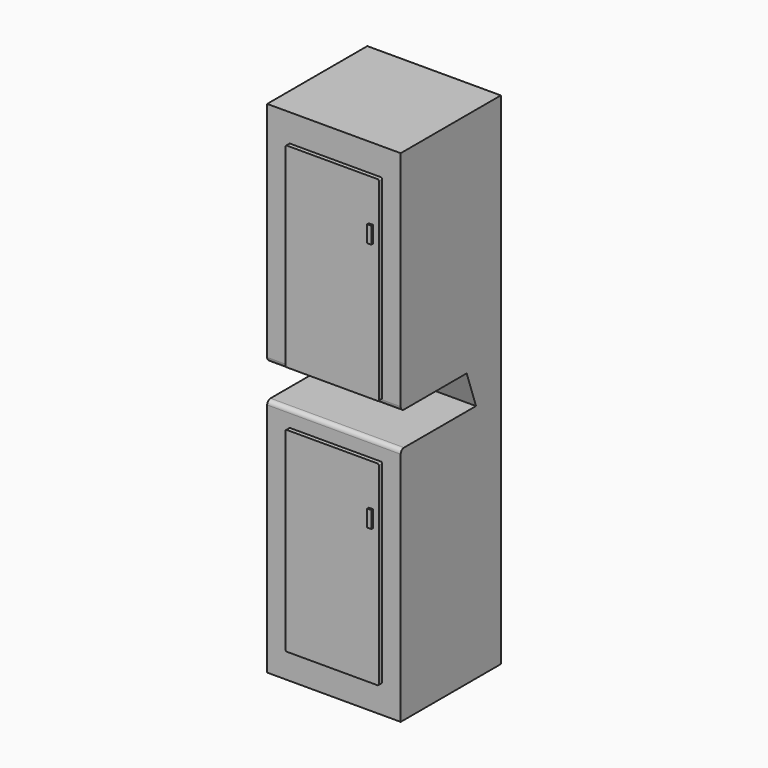
from build123d import *

# Parameters (mm, degrees)
F0_W     = 487.68
F0_H     = 457.2
F1_DEPTH = 914.4
F3_DEPTH = 15.24
F5_W     = 15.24
F5_H     = 60.96
F6_DEPTH = 7.62
F8_DEPTH = 487.68
F9_R     = 15.24


with BuildPart() as f1:
    # F0 (on Top) → F1 (new body)
    with BuildSketch(Plane.XY):
        with Locations((-16.6927352548, 0.1030346877)):
            Rectangle(F0_W, F0_H)
    extrude(amount=F1_DEPTH)

    # F2 (on face) → F3 (join)
    with BuildSketch(Plane.XZ.offset(228.4969653123)):
        with BuildLine():
            ThreePointArc((-181.4615279436, 105.584), (-179.9970618495, 102.0484660941), (-176.4615279436, 100.584))
            Line((-176.4615279436, 100.584), (154.5883071423, 100.584))
            ThreePointArc((154.5883071423, 100.584), (158.1238410482, 102.0484660941), (159.5883071423, 105.584))
            Line((159.5883071423, 105.584), (159.5883071423, 808.816))
            ThreePointArc((159.5883071423, 808.816), (158.1238410482, 812.3515339059), (154.5883071423, 813.816))
            Line((154.5883071423, 813.816), (-176.4615279436, 813.816))
            ThreePointArc((-176.4615279436, 813.816), (-179.9970618495, 812.3515339059), (-181.4615279436, 808.816))
            Line((-181.4615279436, 808.816), (-181.4615279436, 105.584))
        make_face()
    extrude(amount=F3_DEPTH)

    # F4: F1 across face


with BuildPart() as f1_1:
    add(f1.part)
    add(f1.part.mirror(Plane(origin=(-16.6927352548, 0.1030346877, 0), x_dir=(1, 0, 0), z_dir=(0, 0, -1))))

    # F5 (on face) → F6 (join)
    with BuildSketch(Plane.XZ.offset(243.7369653123)):
        with Locations((130.6323071423, 630.936)):
            Rectangle(F5_W, F5_H)
        with Locations((130.6323071423, -283.464)):
            Rectangle(F5_W, F5_H)
    extrude(amount=F6_DEPTH)

    # F7 (on face) → F8 (cut)
    with BuildSketch(Plane.YZ.offset(227.1472647452)):
        Polygon((72.7191716433, 84.0164422989), (-228.4969653123, 84.0164422989), (-228.4969653123, -38.4914465249), (115.4544577003, -38.4914465249), align=None)
    extrude(amount=-F8_DEPTH, mode=Mode.SUBTRACT)

    # F9
    f9_edges = [f1_1.edges().sort_by_distance(p)[0] for p in [
        (-16.692735, -228.496965, -38.491447),
        (-16.692735, -228.496965, 84.016442),
    ]]
    fillet(f9_edges, radius=F9_R)


solid = f1_1.part
